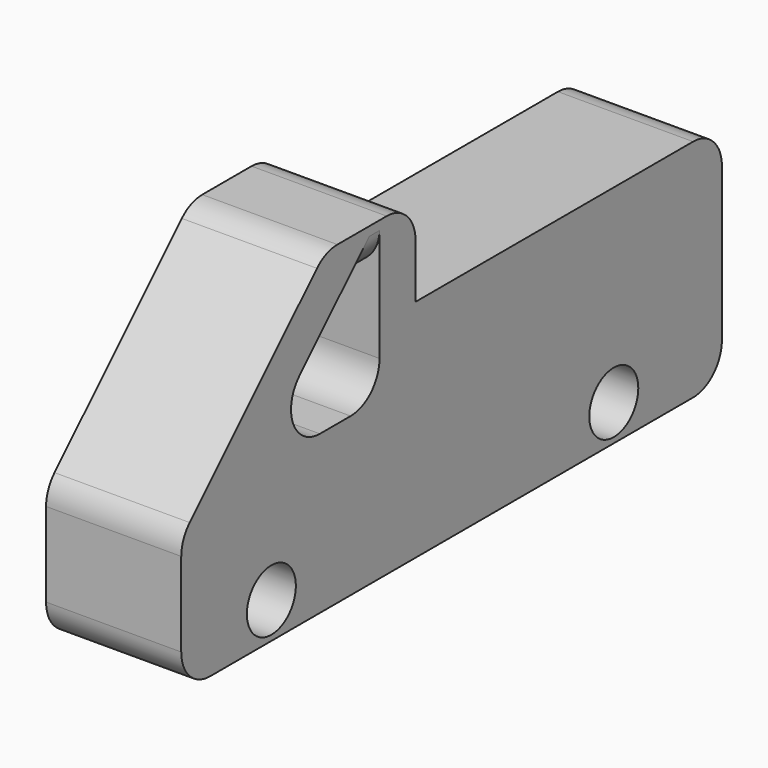
from build123d import *

# Parameters (mm, degrees)
F0_R     = 6.7962511827
F1_DEPTH = 15
F2_R     = 8


with BuildPart() as f1:
    # F0 (on Right) → F1 (new body, symmetric)
    with BuildSketch(Plane.YZ):
        Polygon((0, 30), (0, 0), (150, 0), (150, 50), (65, 50), (65, 70), (40, 70), align=None)
        with Locations((25, 8)):
            Circle(F0_R, mode=Mode.SUBTRACT)
        with Locations((120, 8)):
            Circle(F0_R, mode=Mode.SUBTRACT)
        Polygon((44.1421356237, 60), (55, 60), (55, 35), (19.1421356237, 35), align=None, mode=Mode.SUBTRACT)
    extrude(amount=F1_DEPTH, both=True)

    # F2 (call 1 of 9: OpenCascade refuses the feature's edges together)
    f2_edges = [f1.edges().sort_by_distance(p)[0] for p in [
        (0, 40, 70),
    ]]
    fillet(f2_edges, radius=F2_R)

    # F2#2 (call 2 of 9)
    f2_2_edges = [f1.edges().sort_by_distance(p)[0] for p in [
        (0, 65, 70),
    ]]
    fillet(f2_2_edges, radius=F2_R)

    # F2#3 (call 3 of 9)
    f2_3_edges = [f1.edges().sort_by_distance(p)[0] for p in [
        (0, 150, 50),
    ]]
    fillet(f2_3_edges, radius=F2_R)

    # F2#4 (call 4 of 9)
    f2_4_edges = [f1.edges().sort_by_distance(p)[0] for p in [
        (0, 0, 30),
    ]]
    fillet(f2_4_edges, radius=F2_R)

    # F2#5 (call 5 of 9)
    f2_5_edges = [f1.edges().sort_by_distance(p)[0] for p in [
        (0, 0, 0),
    ]]
    fillet(f2_5_edges, radius=F2_R)

    # F2#6 (call 6 of 9)
    f2_6_edges = [f1.edges().sort_by_distance(p)[0] for p in [
        (0, 150, 0),
    ]]
    fillet(f2_6_edges, radius=F2_R)

    # F2#7 (call 7 of 9)
    f2_7_edges = [f1.edges().sort_by_distance(p)[0] for p in [
        (0, 19.142136, 35),
    ]]
    fillet(f2_7_edges, radius=F2_R)

    # F2#8 (call 8 of 9)
    f2_8_edges = [f1.edges().sort_by_distance(p)[0] for p in [
        (15, 49.571068, 60),
    ]]
    fillet(f2_8_edges, radius=F2_R)

    # F2#9 (call 9 of 9)
    f2_9_edges = [f1.edges().sort_by_distance(p)[0] for p in [
        (0, 55, 35),
    ]]
    fillet(f2_9_edges, radius=F2_R)


solid = f1.part
